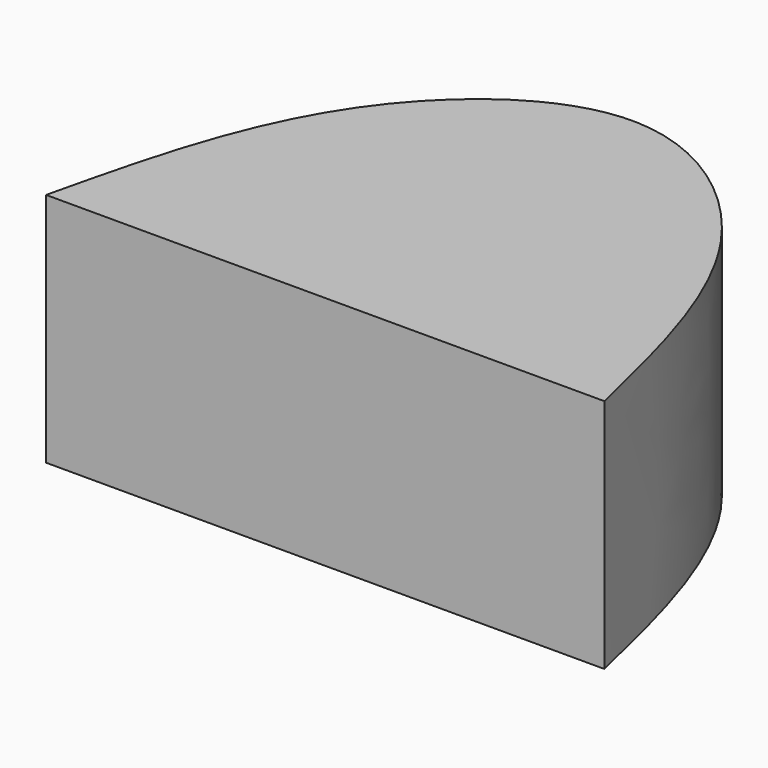
from build123d import *

# Parameters (mm, degrees)
F1_DEPTH = 25


with BuildPart() as f1:
    # F0 (on Top) → F1 (new body)
    with BuildSketch(Plane.XY):
        with BuildLine():
            Line((0, 20.36), (19.3, 7.94))
            add(Edge.make_bspline(
                [(19.3, 7.94), (14.4682086484, 14.9512544702), (7.2341043242, 20.36), (0, 20.36)],
                knots=[0.2669552188, 0.2669552188, 0.2669552188, 0.2669552188, 0.5, 0.5, 0.5, 0.5], degree=3))
        make_face()
        with BuildLine():
            Line((19.3, 7.94), (29.6, -20.36))
            add(Edge.make_bspline(
                [(29.6, -20.36), (27.2174336035, -10.2257324296), (24.834867207, -0.0914648592), (19.3, 7.94)],
                knots=[0, 0, 0, 0, 0.2669552188, 0.2669552188, 0.2669552188, 0.2669552188], degree=3))
        make_face()
        with BuildLine():
            Line((-19.3, 7.94), (0, 20.36))
            add(Edge.make_bspline(
                [(0, 20.36), (-7.2341043242, 20.36), (-14.4682086484, 14.9512544702), (-19.3, 7.94)],
                knots=[0.5, 0.5, 0.5, 0.5, 0.7330447812, 0.7330447812, 0.7330447812, 0.7330447812], degree=3))
        make_face()
        with BuildLine():
            add(Edge.make_bspline(
                [(-19.3, 7.94), (-24.834867207, -0.0914648592), (-27.2174336035, -10.2257324296), (-29.6, -20.36)],
                knots=[0.7330447812, 0.7330447812, 0.7330447812, 0.7330447812, 1, 1, 1, 1], degree=3))
            Line((-29.6, -20.36), (-19.3, 7.94))
        make_face()
        Polygon((-29.6, -20.36), (0, -20.36), (0, 7.94), (0, 20.36), (-19.3, 7.94), align=None)
        Polygon((0, 7.94), (0, -20.36), (29.6, -20.36), (19.3, 7.94), align=None)
        Polygon((0, 20.36), (0, 7.94), (19.3, 7.94), align=None)
    extrude(amount=F1_DEPTH)


solid = f1.part
